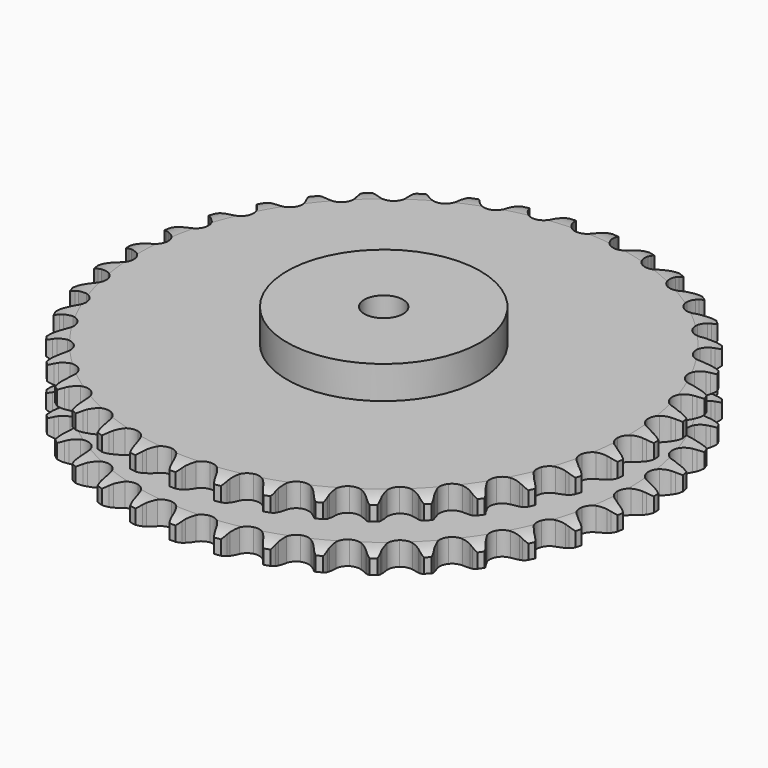
from build123d import *

# Parameters (mm, degrees)
PAD_DEPTH         = 54.6
SKETCH001_R       = 75
PAD001_DEPTH      = 80
SKETCH002_R       = 15
POCKET_DEPTH      = 0.001
POCKET_DEPTH_BACK = 80.001


with BuildPart() as part:
    # Sprocket → Pad (new body)
    with BuildSketch(Plane.XY):
        with BuildLine():
            ThreePointArc((-16.715659, 207.060594), (-13.935203, 204.055727), (-12.040041, 200.426881))
            Line((-12.040041, 200.426881), (-11.111154, 197.871225))
            ThreePointArc((-11.111154, 197.871225), (-9.644767, 194.595436), (-7.721808, 191.565038))
            ThreePointArc((-7.721808, 191.565038), (-4.322892, 188.703275), (0, 187.676176))
            ThreePointArc((0, 187.676176), (4.322892, 188.703275), (7.721808, 191.565038))
            ThreePointArc((7.721808, 191.565038), (9.644767, 194.595436), (11.111154, 197.871225))
            Line((11.111154, 197.871225), (12.040041, 200.426881))
            ThreePointArc((12.040041, 200.426881), (13.935203, 204.055727), (16.715659, 207.060594))
            ThreePointArc((16.715659, 207.060594), (18.978094, 203.648623), (20.266607, 199.762764))
            Line((20.266607, 199.762764), (20.77351, 197.091199))
            ThreePointArc((20.77351, 197.091199), (21.695434, 193.622606), (23.107381, 190.322986))
            ThreePointArc((23.107381, 190.322986), (26.003223, 186.953058), (30.105376, 185.245819))
            ThreePointArc((30.105376, 185.245819), (34.537045, 185.566176), (38.351006, 187.845656))
            Line((38.351006, 187.845656), (42.708044, 193.52649))
            ThreePointArc((42.708044, 193.52649), (43.338962, 194.73143), (44.034859, 195.900047))
            ThreePointArc((44.034859, 195.900047), (46.487587, 199.177895), (49.714051, 201.697834))
            ThreePointArc((49.714051, 201.697834), (51.399869, 197.967126), (52.04836, 193.924896))
            Line((52.04836, 193.924896), (52.12015, 191.206615))
            ThreePointArc((52.12015, 191.206615), (52.473734, 187.635052), (53.3381, 184.151669))
            ThreePointArc((53.3381, 184.151669), (55.655867, 180.360854), (59.431038, 178.017693))
            ThreePointArc((59.431038, 178.017693), (63.856708, 177.623011), (67.986933, 179.26117))
            Line((67.986933, 179.26117), (73.198818, 184.169521))
            ThreePointArc((73.198818, 184.169521), (74.014852, 185.257651), (74.889196, 186.299505))
            ThreePointArc((74.889196, 186.299505), (77.835966, 189.14146), (81.424875, 191.111205))
            ThreePointArc((81.424875, 191.111205), (82.490415, 187.158385), (82.482089, 183.064475))
            Line((82.482089, 183.064475), (82.116905, 180.369879))
            ThreePointArc((82.116905, 180.369879), (81.892992, 176.787848), (82.187391, 173.210921))
            ThreePointArc((82.187391, 173.210921), (83.867054, 169.0974), (87.217468, 166.179001))
            ThreePointArc((87.217468, 166.179001), (91.522515, 165.079504), (95.862034, 166.033914))
            Line((95.862034, 166.033914), (101.793781, 170.042658))
            ThreePointArc((101.793781, 170.042658), (102.773796, 170.985796), (103.803943, 171.873903))
            ThreePointArc((103.803943, 171.873903), (107.168434, 174.206361), (111.026837, 175.574897))
            ThreePointArc((111.026837, 175.574897), (111.444502, 171.50234), (110.779574, 167.462781))
            Line((110.779574, 167.462781), (109.986876, 164.861659))
            ThreePointArc((109.986876, 164.861659), (109.191264, 161.361932), (108.908071, 157.7841))
            ThreePointArc((108.908071, 157.7841), (109.906128, 153.454411), (112.745011, 150.036361))
            ThreePointArc((112.745011, 150.036361), (116.817937, 148.260524), (121.254358, 148.506467))
            Line((121.254358, 148.506467), (127.752339, 151.511779))
            ThreePointArc((127.752339, 151.511779), (128.870953, 152.285498), (130.030222, 152.996858))
            ThreePointArc((130.030222, 152.996858), (133.725297, 154.759409), (137.753263, 155.491291))
            ThreePointArc((137.753263, 155.491291), (137.512235, 151.404474), (136.207927, 147.523889))
            Line((136.207927, 147.523889), (135.008245, 145.083608))
            ThreePointArc((135.008245, 145.083608), (133.66154, 141.756827), (132.80809, 138.270754))
            ThreePointArc((132.80809, 138.270754), (133.098691, 133.837034), (135.352518, 130.007858))
            ThreePointArc((135.352518, 130.007858), (139.087836, 127.601674), (143.506259, 127.13278))
            Line((143.506259, 127.13278), (150.402179, 129.056825))
            ThreePointArc((150.402179, 129.056825), (151.63042, 129.641087), (152.888787, 130.157274))
            ThreePointArc((152.888787, 130.157274), (156.818744, 131.304269), (160.911951, 131.380542))
            ThreePointArc((160.911951, 131.380542), (160.018473, 127.385312), (158.108566, 123.764205))
            Line((158.108566, 123.764205), (156.532971, 121.547968))
            ThreePointArc((156.532971, 121.547968), (154.670052, 118.480295), (153.268449, 115.176268))
            ThreePointArc((153.268449, 115.176268), (152.844068, 110.753348), (154.454465, 106.61222))
            ThreePointArc((154.454465, 106.61222), (157.755433, 103.638008), (162.041423, 102.466422))
            Line((162.041423, 102.466422), (169.15668, 103.259367))
            ThreePointArc((169.15668, 103.259367), (170.462738, 103.639039), (171.787612, 103.946686))
            ThreePointArc((171.787612, 103.946686), (175.850669, 104.448417), (179.903105, 103.867106))
            ThreePointArc((179.903105, 103.867106), (178.380317, 100.066938), (175.914276, 96.799093))
            Line((175.914276, 96.799093), (174.003575, 94.864299))
            ThreePointArc((174.003575, 94.864299), (171.672692, 92.135185), (169.759235, 89.098778))
            ThreePointArc((169.759235, 89.098778), (168.630864, 84.801208), (169.556123, 80.455381))
            ThreePointArc((169.556123, 80.455381), (172.337247, 76.990172), (176.379799, 75.146236))
            Line((176.379799, 75.146236), (183.530113, 74.787546))
            ThreePointArc((183.530113, 74.787546), (184.880162, 74.952794), (186.237229, 75.043932))
            ThreePointArc((186.237229, 75.043932), (190.328153, 74.887407), (194.234863, 73.663567))
            ThreePointArc((194.234863, 73.663567), (192.122204, 70.156882), (189.163899, 67.326936))
            Line((189.163899, 67.326936), (186.967578, 65.723695))
            ThreePointArc((186.967578, 65.723695), (184.229098, 63.403822), (181.853347, 60.713676))
            ThreePointArc((181.853347, 60.713676), (180.050209, 56.652762), (180.266366, 52.21479))
            ThreePointArc((180.266366, 52.21479), (182.455617, 48.348331), (186.150031, 45.879803))
            Line((186.150031, 45.879803), (193.150212, 44.378766))
            ThreePointArc((193.150212, 44.378766), (194.509286, 44.325312), (195.863399, 44.197581))
            ThreePointArc((195.863399, 44.197581), (199.876238, 43.386852), (203.536039, 41.55218))
            ThreePointArc((203.536039, 41.55218), (200.888228, 38.4298), (197.514277, 36.111047))
            Line((197.514277, 36.111047), (195.089219, 34.880881))
            ThreePointArc((195.089219, 34.880881), (192.014068, 33.030333), (189.237552, 30.756121))
            ThreePointArc((189.237552, 30.756121), (186.806348, 27.037039), (186.307806, 22.621863))
            ThreePointArc((186.307806, 22.621863), (187.848482, 18.454293), (191.099075, 15.425106))
            Line((191.099075, 15.425106), (197.767823, 12.8206))
            ThreePointArc((197.767823, 12.8206), (199.100722, 12.549827), (200.41681, 12.206535))
            ThreePointArc((200.41681, 12.206535), (204.247634, 10.7626), (207.565739, 8.364613))
            ThreePointArc((207.565739, 8.364613), (204.451351, 5.707406), (200.749138, 3.9599))
            Line((200.749138, 3.9599), (198.158152, 3.134672))
            ThreePointArc((198.158152, 3.134672), (194.825975, 1.801377), (191.720605, 0.001999))
            ThreePointArc((191.720605, 0.001999), (188.724301, -3.278929), (187.523971, -7.556958))
            ThreePointArc((187.523971, -7.556958), (188.376171, -11.9177), (191.098753, -15.429092))
            Line((191.098753, -15.429092), (197.26335, -19.069613))
            ThreePointArc((197.26335, -19.069613), (198.535553, -19.550692), (199.779531, -20.100654))
            ThreePointArc((199.779531, -20.100654), (203.329123, -22.140398), (206.219596, -25.039592))
            ThreePointArc((206.219596, -25.039592), (202.719292, -27.162806), (198.784702, -28.293806))
            Line((198.784702, -28.293806), (196.094893, -28.692725))
            ThreePointArc((196.094893, -28.692725), (192.591991, -29.474235), (189.238194, -30.752174))
            ThreePointArc((189.238194, -30.752174), (185.754394, -33.509975), (183.883363, -37.540057))
            ThreePointArc((183.883363, -37.540057), (184.025015, -41.981032), (186.149074, -45.883685))
            Line((186.149074, -45.883685), (191.64986, -50.465934))
            ThreePointArc((191.64986, -50.465934), (192.828419, -51.144858), (193.968067, -51.887246))
            ThreePointArc((193.968067, -51.887246), (197.144495, -54.46997), (199.532473, -57.795286))
            ThreePointArc((199.532473, -57.795286), (195.73691, -59.329516), (191.671847, -59.814717))
            Line((191.671847, -59.814717), (188.952879, -59.776994))
            ThreePointArc((188.952879, -59.776994), (185.369975, -59.986479), (181.854613, -60.709883))
            ThreePointArc((181.854613, -60.709883), (177.973545, -62.87313), (175.480273, -66.550889))
            ThreePointArc((175.480273, -66.550889), (174.907709, -70.957077), (176.378231, -75.149915))
            Line((176.378231, -75.149915), (181.07274, -80.555213))
            ThreePointArc((181.07274, -80.555213), (182.127129, -81.414399), (183.132932, -82.329986))
            ThreePointArc((183.132932, -82.329986), (185.853928, -85.388799), (187.677564, -89.054112))
            ThreePointArc((187.677564, -89.054112), (183.685045, -89.959623), (179.594791, -89.786459))
            Line((179.594791, -89.786459), (176.917084, -89.313071))
            ThreePointArc((176.917084, -89.313071), (173.346975, -88.945105), (169.761094, -89.095237))
            ThreePointArc((169.761094, -89.095237), (165.583276, -90.607903), (162.532336, -93.838088))
            ThreePointArc((162.532336, -93.838088), (161.260384, -98.095371), (162.039286, -102.469801))
            Line((162.039286, -102.469801), (165.805931, -108.558154))
            ThreePointArc((165.805931, -108.558154), (166.708842, -109.57535), (167.55475, -110.640422))
            ThreePointArc((167.55475, -110.640422), (169.749842, -114.096104), (170.961905, -118.006483))
            ThreePointArc((170.961905, -118.006483), (166.875833, -118.259823), (162.866325, -117.432778))
            Line((162.866325, -117.432778), (160.29923, -116.535986))
            ThreePointArc((160.29923, -116.535986), (156.834379, -115.6001), (153.270851, -115.173072))
            ThreePointArc((153.270851, -115.173072), (148.904486, -115.99598), (145.374897, -118.69493))
            ThreePointArc((145.374897, -118.69493), (143.4365, -122.693047), (143.503607, -127.135773))
            Line((143.503607, -127.135773), (146.244835, -133.749496))
            ThreePointArc((146.244835, -133.749496), (146.972885, -134.898357), (147.636988, -136.08533))
            ThreePointArc((147.636988, -136.08533), (149.249324, -139.848378), (149.818422, -143.902548))
            ThreePointArc((149.818422, -143.902548), (145.744625, -143.497156), (141.919706, -142.03765))
            Line((141.919706, -142.03765), (139.529711, -140.740681))
            ThreePointArc((139.529711, -140.740681), (136.259855, -139.261112), (132.810974, -138.267984))
            ThreePointArc((132.810974, -138.267984), (128.369148, -138.379822), (124.452325, -140.477635))
            ThreePointArc((124.452325, -140.477635), (121.897686, -144.113037), (121.251261, -148.508996))
            Line((121.251261, -148.508996), (122.896075, -155.476796))
            ThreePointArc((122.896075, -155.476796), (123.430406, -156.727567), (123.895506, -158.005699))
            ThreePointArc((123.895506, -158.005699), (124.883327, -161.978654), (124.794721, -166.071613))
            ThreePointArc((124.794721, -166.071613), (120.838708, -165.017987), (117.297442, -162.963822))
            Line((117.297442, -162.963822), (115.146445, -161.300266))
            ThreePointArc((115.146445, -161.300266), (112.156272, -159.315335), (108.911362, -157.781829))
            ThreePointArc((108.911362, -157.781829), (104.509117, -157.179699), (100.306503, -158.622043))
            ThreePointArc((100.306503, -158.622043), (97.201787, -161.800575), (95.858571, -166.035914))
            Line((95.858571, -166.035914), (96.364371, -173.17733))
            ThreePointArc((96.364371, -173.17733), (96.691145, -174.497616), (96.945195, -175.833803))
            ThreePointArc((96.945195, -175.833803), (97.282917, -179.913767), (96.538902, -183.93951))
            ThreePointArc((96.538902, -183.93951), (92.803132, -182.26494), (89.637235, -179.669316))
            Line((89.637235, -179.669316), (87.780946, -177.682258))
            ThreePointArc((87.780946, -177.682258), (85.147901, -175.243375), (82.191003, -173.209206))
            ThreePointArc((82.191003, -173.209206), (77.942354, -171.908705), (73.562795, -172.658224))
            ThreePointArc((73.562795, -172.658224), (69.988412, -175.297563), (67.983194, -179.262588))
            Line((67.983194, -179.262588), (67.33688, -186.392661))
            ThreePointArc((67.33688, -186.392661), (67.447634, -187.748268), (67.484055, -189.107904))
            ThreePointArc((67.484055, -189.107904), (67.162931, -193.189208), (65.782776, -197.04347))
            ThreePointArc((65.782776, -197.04347), (62.364003, -194.791326), (59.655472, -191.721469))
            Line((59.655472, -191.721469), (58.141967, -189.462374))
            ThreePointArc((58.141967, -189.462374), (55.934244, -186.632703), (53.341941, -184.150557))
            ThreePointArc((53.341941, -184.150557), (49.356926, -182.185365), (44.913849, -182.222648))
            ThreePointArc((44.913849, -182.222648), (40.962373, -184.254436), (38.347088, -187.846456))
            Line((38.347088, -187.846456), (36.5654, -194.78052))
            ThreePointArc((36.5654, -194.78052), (36.457265, -196.136339), (36.275113, -197.48421))
            ThreePointArc((36.275113, -197.48421), (35.30346, -201.461151), (33.322911, -205.044109))
            ThreePointArc((33.322911, -205.044109), (30.30968, -202.272719), (28.128663, -198.808137))
            Line((28.128663, -198.808137), (26.997142, -196.335513))
            ThreePointArc((26.997142, -196.335513), (25.271919, -193.188342), (23.11135, -190.322504))
            ThreePointArc((23.11135, -190.322504), (19.493179, -187.74352), (15.101658, -187.0676))
            ThreePointArc((15.101658, -187.0676), (10.875431, -188.439216), (7.717813, -191.565199))
            Line((7.717813, -191.565199), (4.846895, -198.123666))
            ThreePointArc((4.846895, -198.123666), (4.522671, -199.444581), (4.126664, -200.745779))
            ThreePointArc((4.126664, -200.745779), (2.529648, -204.515355), (0, -207.734212))
            ThreePointArc((0, -207.734212), (-2.529648, -204.515355), (-4.126664, -200.745779))
            Line((-4.126664, -200.745779), (-4.846895, -198.123666))
            ThreePointArc((-4.846895, -198.123666), (-6.044935, -194.740505), (-7.717813, -191.565199))
            ThreePointArc((-7.717813, -191.565199), (-10.875431, -188.439216), (-15.101658, -187.0676))
            ThreePointArc((-15.101658, -187.0676), (-19.493179, -187.74352), (-23.11135, -190.322504))
            Line((-23.11135, -190.322504), (-26.997142, -196.335513))
            ThreePointArc((-26.997142, -196.335513), (-27.529057, -197.587314), (-28.128663, -198.808137))
            ThreePointArc((-28.128663, -198.808137), (-30.30968, -202.272719), (-33.322911, -205.044109))
            ThreePointArc((-33.322911, -205.044109), (-35.30346, -201.461151), (-36.275113, -197.48421))
            Line((-36.275113, -197.48421), (-36.5654, -194.78052))
            ThreePointArc((-36.5654, -194.78052), (-37.205229, -191.24899), (-38.347088, -187.846456))
            ThreePointArc((-38.347088, -187.846456), (-40.962373, -184.254436), (-44.913849, -182.222648))
            ThreePointArc((-44.913849, -182.222648), (-49.356926, -182.185365), (-53.341941, -184.150557))
            Line((-53.341941, -184.150557), (-58.141967, -189.462374))
            ThreePointArc((-58.141967, -189.462374), (-58.867797, -190.612639), (-59.655472, -191.721469))
            ThreePointArc((-59.655472, -191.721469), (-62.364003, -194.791326), (-65.782776, -197.04347))
            ThreePointArc((-65.782776, -197.04347), (-67.162931, -193.189208), (-67.484055, -189.107904))
            Line((-67.484055, -189.107904), (-67.33688, -186.392661))
            ThreePointArc((-67.33688, -186.392661), (-67.401926, -182.804228), (-67.983194, -179.262588))
            ThreePointArc((-67.983194, -179.262588), (-69.988412, -175.297563), (-73.562795, -172.658224))
            ThreePointArc((-73.562795, -172.658224), (-77.942354, -171.908705), (-82.191003, -173.209206))
            Line((-82.191003, -173.209206), (-87.780946, -177.682258))
            ThreePointArc((-87.780946, -177.682258), (-88.681892, -178.701196), (-89.637235, -179.669316))
            ThreePointArc((-89.637235, -179.669316), (-92.803132, -182.26494), (-96.538902, -183.93951))
            ThreePointArc((-96.538902, -183.93951), (-97.282917, -179.913767), (-96.945195, -175.833803))
            Line((-96.945195, -175.833803), (-96.364371, -173.17733))
            ThreePointArc((-96.364371, -173.17733), (-95.852949, -169.624932), (-95.858571, -166.035914))
            ThreePointArc((-95.858571, -166.035914), (-97.201787, -161.800575), (-100.306503, -158.622043))
            ThreePointArc((-100.306503, -158.622043), (-104.509117, -157.179699), (-108.911362, -157.781829))
            Line((-108.911362, -157.781829), (-115.146445, -161.300266))
            ThreePointArc((-115.146445, -161.300266), (-116.199172, -162.161487), (-117.297442, -162.963822))
            ThreePointArc((-117.297442, -162.963822), (-120.838708, -165.017987), (-124.794721, -166.071613))
            ThreePointArc((-124.794721, -166.071613), (-124.883327, -161.978654), (-123.895506, -158.005699))
            Line((-123.895506, -158.005699), (-122.896075, -155.476796))
            ThreePointArc((-122.896075, -155.476796), (-121.821431, -152.052439), (-121.251261, -148.508996))
            ThreePointArc((-121.251261, -148.508996), (-121.897686, -144.113037), (-124.452325, -140.477635))
            ThreePointArc((-124.452325, -140.477635), (-128.369148, -138.379822), (-132.810974, -138.267984))
            Line((-132.810974, -138.267984), (-139.529711, -140.740681))
            ThreePointArc((-139.529711, -140.740681), (-140.706955, -141.42188), (-141.919706, -142.03765))
            ThreePointArc((-141.919706, -142.03765), (-145.744625, -143.497156), (-149.818422, -143.902548))
            ThreePointArc((-149.818422, -143.902548), (-149.249324, -139.848378), (-147.636988, -136.08533))
            Line((-147.636988, -136.08533), (-146.244835, -133.749496))
            ThreePointArc((-146.244835, -133.749496), (-144.634802, -130.541868), (-143.503607, -127.135773))
            ThreePointArc((-143.503607, -127.135773), (-143.4365, -122.693047), (-145.374897, -118.69493))
            ThreePointArc((-145.374897, -118.69493), (-148.904486, -115.99598), (-153.270851, -115.173072))
            Line((-153.270851, -115.173072), (-160.29923, -116.535986))
            ThreePointArc((-160.29923, -116.535986), (-161.570502, -117.019521), (-162.866325, -117.432778))
            ThreePointArc((-162.866325, -117.432778), (-166.875833, -118.259823), (-170.961905, -118.006483))
            ThreePointArc((-170.961905, -118.006483), (-169.749842, -114.096104), (-167.55475, -110.640422))
            Line((-167.55475, -110.640422), (-165.805931, -108.558154))
            ThreePointArc((-165.805931, -108.558154), (-163.702208, -105.650331), (-162.039286, -102.469801))
            ThreePointArc((-162.039286, -102.469801), (-161.260384, -98.095371), (-162.532336, -93.838088))
            ThreePointArc((-162.532336, -93.838088), (-165.583276, -90.607903), (-169.761094, -89.095237))
            Line((-169.761094, -89.095237), (-176.917084, -89.313071))
            ThreePointArc((-176.917084, -89.313071), (-178.249458, -89.586418), (-179.594791, -89.786459))
            ThreePointArc((-179.594791, -89.786459), (-183.685045, -89.959623), (-187.677564, -89.054112))
            ThreePointArc((-187.677564, -89.054112), (-185.853928, -85.388799), (-183.132932, -82.329986))
            Line((-183.132932, -82.329986), (-181.07274, -80.555213))
            ThreePointArc((-181.07274, -80.555213), (-178.529812, -78.022506), (-176.378231, -75.149915))
            ThreePointArc((-176.378231, -75.149915), (-174.907709, -70.957077), (-175.480273, -66.550889))
            ThreePointArc((-175.480273, -66.550889), (-177.973545, -62.87313), (-181.854613, -60.709883))
            Line((-181.854613, -60.709883), (-188.952879, -59.776994))
            ThreePointArc((-188.952879, -59.776994), (-190.311846, -59.833073), (-191.671847, -59.814717))
            ThreePointArc((-191.671847, -59.814717), (-195.73691, -59.329516), (-199.532473, -57.795286))
            ThreePointArc((-199.532473, -57.795286), (-197.144495, -54.46997), (-193.968067, -51.887246))
            Line((-193.968067, -51.887246), (-191.64986, -50.465934))
            ThreePointArc((-191.64986, -50.465934), (-188.733588, -48.37394), (-186.149074, -45.883685))
            ThreePointArc((-186.149074, -45.883685), (-184.025015, -41.981032), (-183.883363, -37.540057))
            ThreePointArc((-183.883363, -37.540057), (-185.754394, -33.509975), (-189.238194, -30.752174))
            Line((-189.238194, -30.752174), (-196.094893, -28.692725))
            ThreePointArc((-196.094893, -28.692725), (-197.445258, -28.530084), (-198.784702, -28.293806))
            ThreePointArc((-198.784702, -28.293806), (-202.719292, -27.162806), (-206.219596, -25.039592))
            ThreePointArc((-206.219596, -25.039592), (-203.329123, -22.140398), (-199.779531, -20.100654))
            Line((-199.779531, -20.100654), (-197.26335, -19.069613))
            ThreePointArc((-197.26335, -19.069613), (-194.049263, -17.472513), (-191.098753, -15.429092))
            ThreePointArc((-191.098753, -15.429092), (-188.376171, -11.9177), (-187.523971, -7.556958))
            ThreePointArc((-187.523971, -7.556958), (-188.724301, -3.278929), (-191.720605, 0.001999))
            Line((-191.720605, 0.001999), (-198.158152, 3.134672))
            ThreePointArc((-198.158152, 3.134672), (-199.464941, 3.51182), (-200.749138, 3.9599))
            ThreePointArc((-200.749138, 3.9599), (-204.451351, 5.707406), (-207.565739, 8.364613))
            ThreePointArc((-207.565739, 8.364613), (-204.247634, 10.7626), (-200.41681, 12.206535))
            Line((-200.41681, 12.206535), (-197.767823, 12.8206))
            ThreePointArc((-197.767823, 12.8206), (-194.339165, 13.881442), (-191.099075, 15.425106))
            ThreePointArc((-191.099075, 15.425106), (-187.848482, 18.454293), (-186.307806, 22.621863))
            ThreePointArc((-186.307806, 22.621863), (-186.806348, 27.037039), (-189.237552, 30.756121))
            Line((-189.237552, 30.756121), (-195.089219, 34.880881))
            ThreePointArc((-195.089219, 34.880881), (-196.318587, 35.46277), (-197.514277, 36.111047))
            ThreePointArc((-197.514277, 36.111047), (-200.888228, 38.4298), (-203.536039, 41.55218))
            ThreePointArc((-203.536039, 41.55218), (-199.876238, 43.386852), (-195.863399, 44.197581))
            Line((-195.863399, 44.197581), (-193.150212, 44.378766))
            ThreePointArc((-193.150212, 44.378766), (-189.595784, 44.875876), (-186.150031, 45.879803))
            ThreePointArc((-186.150031, 45.879803), (-182.455617, 48.348331), (-180.266366, 52.21479))
            ThreePointArc((-180.266366, 52.21479), (-180.050209, 56.652762), (-181.853347, 60.713676))
            Line((-181.853347, 60.713676), (-186.967578, 65.723695))
            ThreePointArc((-186.967578, 65.723695), (-188.087684, 66.495252), (-189.163899, 67.326936))
            ThreePointArc((-189.163899, 67.326936), (-192.122204, 70.156882), (-194.234863, 73.663567))
            ThreePointArc((-194.234863, 73.663567), (-190.328153, 74.887407), (-186.237229, 75.043932))
            Line((-186.237229, 75.043932), (-183.530113, 74.787546))
            ThreePointArc((-183.530113, 74.787546), (-179.941971, 74.708047), (-176.379799, 75.146236))
            ThreePointArc((-176.379799, 75.146236), (-172.337247, 76.990172), (-169.556123, 80.455381))
            ThreePointArc((-169.556123, 80.455381), (-168.630864, 84.801208), (-169.759235, 89.098778))
            Line((-169.759235, 89.098778), (-174.003575, 94.864299))
            ThreePointArc((-174.003575, 94.864299), (-174.985409, 95.805542), (-175.914276, 96.799093))
            ThreePointArc((-175.914276, 96.799093), (-178.380317, 100.066938), (-179.903105, 103.867106))
            ThreePointArc((-179.903105, 103.867106), (-175.850669, 104.448417), (-171.787612, 103.946686))
            Line((-171.787612, 103.946686), (-169.15668, 103.259367))
            ThreePointArc((-169.15668, 103.259367), (-165.627756, 102.60532), (-162.041423, 102.466422))
            ThreePointArc((-162.041423, 102.466422), (-157.755433, 103.638008), (-154.454465, 106.61222))
            ThreePointArc((-154.454465, 106.61222), (-152.844068, 110.753348), (-153.268449, 115.176268))
            Line((-153.268449, 115.176268), (-156.532971, 121.547968))
            ThreePointArc((-156.532971, 121.547968), (-157.351105, 122.634519), (-158.108566, 123.764205))
            ThreePointArc((-158.108566, 123.764205), (-160.018473, 127.385312), (-160.911951, 131.380542))
            ThreePointArc((-160.911951, 131.380542), (-156.818744, 131.304269), (-152.888787, 130.157274))
            Line((-152.888787, 130.157274), (-150.402179, 129.056825))
            ThreePointArc((-150.402179, 129.056825), (-147.02387, 127.845168), (-143.506259, 127.13278))
            ThreePointArc((-143.506259, 127.13278), (-139.087836, 127.601674), (-135.352518, 130.007858))
            ThreePointArc((-135.352518, 130.007858), (-133.098691, 133.837034), (-132.80809, 138.270754))
            Line((-132.80809, 138.270754), (-135.008245, 145.083608))
            ThreePointArc((-135.008245, 145.083608), (-135.641489, 146.287327), (-136.207927, 147.523889))
            ThreePointArc((-136.207927, 147.523889), (-137.512235, 151.404474), (-137.753263, 155.491291))
            ThreePointArc((-137.753263, 155.491291), (-133.725297, 154.759409), (-130.030222, 152.996858))
            Line((-130.030222, 152.996858), (-127.752339, 151.511779))
            ThreePointArc((-127.752339, 151.511779), (-124.612142, 149.773894), (-121.254358, 148.506467))
            ThreePointArc((-121.254358, 148.506467), (-116.817937, 148.260524), (-112.745011, 150.036361))
            ThreePointArc((-112.745011, 150.036361), (-109.906128, 153.454411), (-108.908071, 157.7841))
            Line((-108.908071, 157.7841), (-109.986876, 164.861659))
            ThreePointArc((-109.986876, 164.861659), (-110.41883, 166.151369), (-110.779574, 167.462781))
            ThreePointArc((-110.779574, 167.462781), (-111.444502, 171.50234), (-111.026837, 175.574897))
            ThreePointArc((-111.026837, 175.574897), (-107.168434, 174.206361), (-103.803943, 171.873903))
            Line((-103.803943, 171.873903), (-101.793781, 170.042658))
            ThreePointArc((-101.793781, 170.042658), (-98.973025, 167.823555), (-95.862034, 166.033914))
            ThreePointArc((-95.862034, 166.033914), (-91.522515, 165.079504), (-87.217468, 166.179001))
            ThreePointArc((-87.217468, 166.179001), (-83.867054, 169.0974), (-82.187391, 173.210921))
            Line((-82.187391, 173.210921), (-82.116905, 180.369879))
            ThreePointArc((-82.116905, 180.369879), (-82.336381, 181.712179), (-82.482089, 183.064475))
            ThreePointArc((-82.482089, 183.064475), (-82.490415, 187.158385), (-81.424875, 191.111205))
            ThreePointArc((-81.424875, 191.111205), (-77.835966, 189.14146), (-74.889196, 186.299505))
            Line((-74.889196, 186.299505), (-73.198818, 184.169521))
            ThreePointArc((-73.198818, 184.169521), (-70.770559, 181.526674), (-67.986933, 179.26117))
            ThreePointArc((-67.986933, 179.26117), (-63.856708, 177.623011), (-59.431038, 178.017693))
            ThreePointArc((-59.431038, 178.017693), (-55.655867, 180.360854), (-53.3381, 184.151669))
            Line((-53.3381, 184.151669), (-52.12015, 191.206615))
            ThreePointArc((-52.12015, 191.206615), (-52.121463, 192.566738), (-52.04836, 193.924896))
            ThreePointArc((-52.04836, 193.924896), (-51.399869, 197.967126), (-49.714051, 201.697834))
            ThreePointArc((-49.714051, 201.697834), (-46.487587, 199.177895), (-44.034859, 195.900047))
            Line((-44.034859, 195.900047), (-42.708044, 193.52649))
            ThreePointArc((-42.708044, 193.52649), (-40.735173, 190.528347), (-38.351006, 187.845656))
            ThreePointArc((-38.351006, 187.845656), (-34.537045, 185.566176), (-30.105376, 185.245819))
            ThreePointArc((-30.105376, 185.245819), (-26.003223, 186.953058), (-23.107381, 190.322986))
            Line((-23.107381, 190.322986), (-20.77351, 197.091199))
            ThreePointArc((-20.77351, 197.091199), (-20.556627, 198.43392), (-20.266607, 199.762764))
            ThreePointArc((-20.266607, 199.762764), (-18.978094, 203.648623), (-16.715659, 207.060594))
        make_face()
    extrude(amount=PAD_DEPTH)

    # Sketch → Groove (revolve, cut)
    with BuildSketch(Plane.XZ):
        with BuildLine():
            ThreePointArc((190.298368, 0), (197.781683, 0.887302), (204.85, 3.5))
            Line((204.85, 3.5), (204.85, 14.7))
            ThreePointArc((204.85, 14.7), (197.781683, 17.312698), (190.298368, 18.2))
            Line((75, 18.2), (190.298368, 18.2))
            Line((75, 36.4), (75, 18.2))
            Line((190.298368, 36.4), (75, 36.4))
            ThreePointArc((190.298368, 36.4), (197.781683, 37.287302), (204.85, 39.9))
            Line((204.85, 39.9), (204.85, 51.1))
            ThreePointArc((204.85, 51.1), (197.781683, 53.712698), (190.298368, 54.6))
            Line((190.298368, 54.6), (214.85, 54.6))
            Line((214.85, 54.6), (214.85, 0))
            Line((190.298368, 0), (214.85, 0))
        make_face()
    revolve(axis=Axis((0, 0, 0), (0, 0, 1)), mode=Mode.SUBTRACT)

    # Sketch001 → Pad001 (join)
    with BuildSketch(Plane.XY):
        Circle(SKETCH001_R)
    extrude(amount=PAD001_DEPTH)

    # Sketch002 → Pocket (cut, two sides)
    with BuildSketch(Plane.XY) as pocket_sk:
        Circle(SKETCH002_R)
    extrude(amount=-POCKET_DEPTH, mode=Mode.SUBTRACT)
    extrude(pocket_sk.sketch, amount=POCKET_DEPTH_BACK, mode=Mode.SUBTRACT)


solid = part.part
